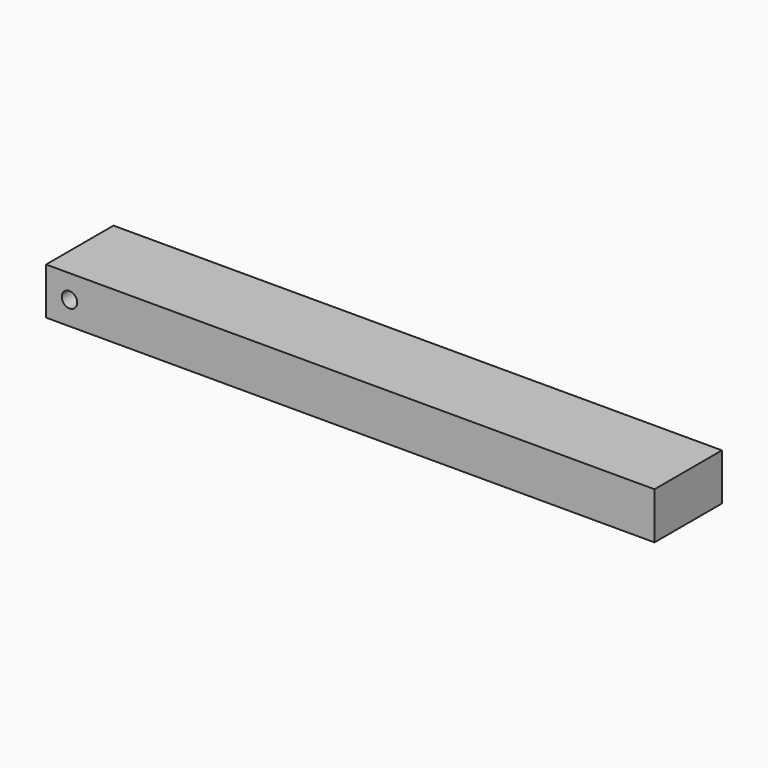
from build123d import *

# Parameters (mm, degrees)
F0_W     = 130
F0_H     = 18
F1_DEPTH = 10
F3_D     = 3.3


with BuildPart() as f1:
    # F0 (on Top) → F1 (new body)
    with BuildSketch(Plane.XY):
        with Locations((65, 9)):
            Rectangle(F0_W, F0_H)
    extrude(amount=F1_DEPTH)

    # F3 (through all)
    with Locations(Plane.XZ):
        with Locations((5, 5)):
            Hole(F3_D / 2)


solid = f1.part
